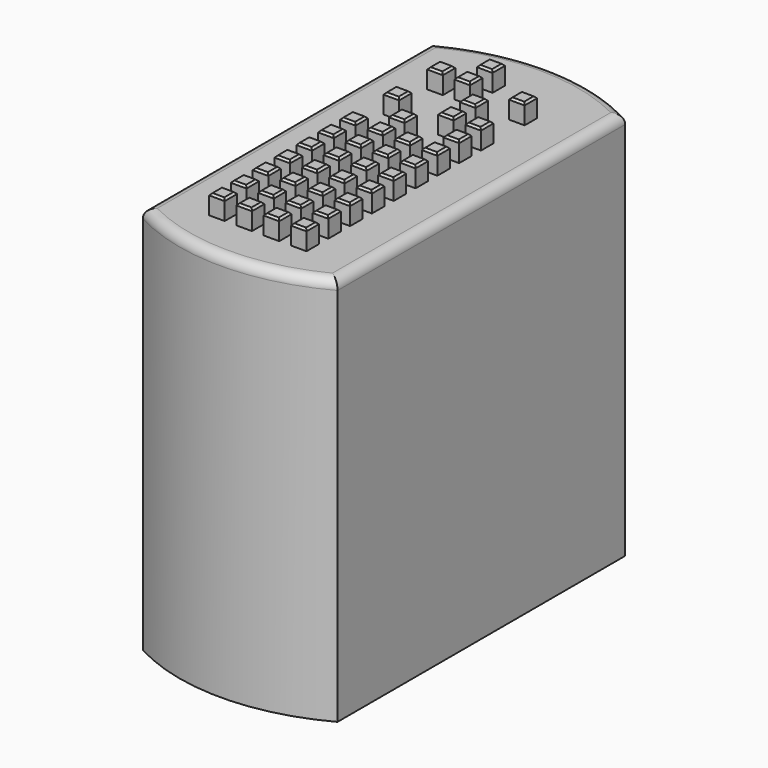
from build123d import *

# Parameters (mm, degrees)
PAD_DEPTH     = 20
SKETCH001_W   = 0.8
SKETCH001_H   = 0.8
SKETCH001_W_2 = 0.800832
SKETCH001_H_2 = 0.800832
PAD001_DEPTH  = 1
CHAMFER_SIZE  = 0.1
FILLET_R      = 0.5


with BuildPart() as part:
    # Sketch → Pad (new body)
    with BuildSketch(Plane.XY):
        with BuildLine():
            Line((-5, 9.233093), (-5, -9.233093))
            ThreePointArc((-5, -9.233093), (0, -10.5), (5, -9.233093))
            Line((5, -9.233093), (5, 9.233093))
            ThreePointArc((5, 9.233093), (0, 10.5), (-5, 9.233093))
        make_face()
    extrude(amount=PAD_DEPTH)

    # Sketch001 (on Face6 of Pad) → Pad001 (join)
    with BuildSketch(Plane.XY.offset(20)):
        with Locations((-2.1, -7.7)):
            Rectangle(SKETCH001_W, SKETCH001_H)
        with Locations((-0.7, -7.7)):
            Rectangle(SKETCH001_W, SKETCH001_H)
        with Locations((0.7, -7.7)):
            Rectangle(SKETCH001_W, SKETCH001_H)
        with Locations((2.1, -7.7)):
            Rectangle(SKETCH001_W, SKETCH001_H)
        with Locations((-2.1, -6.3)):
            Rectangle(SKETCH001_W, SKETCH001_H)
        with Locations((-0.7, -6.3)):
            Rectangle(SKETCH001_W, SKETCH001_H)
        with Locations((0.7, -6.3)):
            Rectangle(SKETCH001_W, SKETCH001_H)
        with Locations((2.1, -6.3)):
            Rectangle(SKETCH001_W, SKETCH001_H)
        with Locations((-2.1, -4.9)):
            Rectangle(SKETCH001_W, SKETCH001_H)
        with Locations((-0.7, -4.9)):
            Rectangle(SKETCH001_W, SKETCH001_H)
        with Locations((0.7, -4.9)):
            Rectangle(SKETCH001_W, SKETCH001_H)
        with Locations((2.1, -4.9)):
            Rectangle(SKETCH001_W, SKETCH001_H)
        with Locations((-2.1, -3.5)):
            Rectangle(SKETCH001_W, SKETCH001_H)
        with Locations((-0.7, -3.5)):
            Rectangle(SKETCH001_W, SKETCH001_H)
        with Locations((0.7, -3.5)):
            Rectangle(SKETCH001_W, SKETCH001_H)
        with Locations((2.1, -3.5)):
            Rectangle(SKETCH001_W, SKETCH001_H)
        with Locations((-2.1, -2.1)):
            Rectangle(SKETCH001_W, SKETCH001_H)
        with Locations((-0.7, -2.1)):
            Rectangle(SKETCH001_W, SKETCH001_H)
        with Locations((0.7, -2.1)):
            Rectangle(SKETCH001_W, SKETCH001_H)
        with Locations((2.1, -2.1)):
            Rectangle(SKETCH001_W, SKETCH001_H)
        with Locations((-2.1, -0.7)):
            Rectangle(SKETCH001_W, SKETCH001_H)
        with Locations((-0.7, -0.7)):
            Rectangle(SKETCH001_W, SKETCH001_H)
        with Locations((0.7, -0.7)):
            Rectangle(SKETCH001_W, SKETCH001_H)
        with Locations((2.1, -0.7)):
            Rectangle(SKETCH001_W, SKETCH001_H)
        with Locations((-2.1, 0.7)):
            Rectangle(SKETCH001_W, SKETCH001_H)
        with Locations((-0.7, 0.7)):
            Rectangle(SKETCH001_W, SKETCH001_H)
        with Locations((0.7, 0.7)):
            Rectangle(SKETCH001_W, SKETCH001_H)
        with Locations((2.1, 0.7)):
            Rectangle(SKETCH001_W, SKETCH001_H)
        with Locations((-0.7, 2.1)):
            Rectangle(SKETCH001_W, SKETCH001_H)
        with Locations((2.1, 2.1)):
            Rectangle(SKETCH001_W, SKETCH001_H)
        with Locations((-2.102913, 3.500416)):
            Rectangle(SKETCH001_W_2, SKETCH001_H_2)
        with Locations((0.698752, 3.500416)):
            Rectangle(SKETCH001_W_2, SKETCH001_H_2)
        with Locations((2.099584, 3.500416)):
            Rectangle(SKETCH001_W_2, SKETCH001_H_2)
        with Locations((0.698752, 4.901248)):
            Rectangle(SKETCH001_W_2, SKETCH001_H_2)
        with Locations((-2.1, 6.3)):
            Rectangle(SKETCH001_W, SKETCH001_H)
        with Locations((-0.7, 6.3)):
            Rectangle(SKETCH001_W, SKETCH001_H)
        with Locations((2.1, 6.3)):
            Rectangle(SKETCH001_W, SKETCH001_H)
        with Locations((-0.66903, 7.7)):
            Rectangle(SKETCH001_W, SKETCH001_H)
    extrude(amount=PAD001_DEPTH)

    # Chamfer
    chamfer_edges = [part.edges().sort_by_distance(p)[0] for p in [
        (2.1, -8.1, 21),
        (2.5, -7.7, 21),
        (2.1, -7.3, 21),
        (1.7, -7.7, 21),
        (0.7, -8.1, 21),
        (1.1, -7.7, 21),
        (0.7, -7.3, 21),
        (0.3, -7.7, 21),
        (-0.7, -8.1, 21),
        (-0.3, -7.7, 21),
        (-0.7, -7.3, 21),
        (-1.1, -7.7, 21),
        (-2.1, -7.3, 21),
        (-1.7, -7.7, 21),
        (-2.1, -8.1, 21),
        (-2.5, -7.7, 21),
        (-2.1, -4.5, 21),
        (-1.7, -4.9, 21),
        (-2.1, -5.3, 21),
        (-2.5, -4.9, 21),
        (-2.1, -1.7, 21),
        (-1.7, -2.1, 21),
        (-2.1, -2.5, 21),
        (-2.5, -2.1, 21),
        (-0.7, 0.3, 21),
        (-0.3, 0.7, 21),
        (-0.7, 1.1, 21),
        (-1.1, 0.7, 21),
        (0.698752, 3.1, 21),
        (1.099168, 3.500416, 21),
        (0.698752, 3.900832, 21),
        (0.298336, 3.500416, 21),
        (-0.7, 1.7, 21),
        (-0.3, 2.1, 21),
        (-0.7, 2.5, 21),
        (-1.1, 2.1, 21),
        (2.1, 1.7, 21),
        (2.5, 2.1, 21),
        (2.1, 2.5, 21),
        (1.7, 2.1, 21),
        (2.1, -1.1, 21),
        (2.5, -0.7, 21),
        (2.1, -0.3, 21),
        (1.7, -0.7, 21),
        (2.1, -2.5, 21),
        (2.5, -2.1, 21),
        (2.1, -1.7, 21),
        (1.7, -2.1, 21),
        (2.099584, 3.1, 21),
        (2.5, 3.500416, 21),
        (2.099584, 3.900832, 21),
        (1.699168, 3.500416, 21),
        (0.7, -2.5, 21),
        (1.1, -2.1, 21),
        (0.7, -1.7, 21),
        (0.3, -2.1, 21),
        (-0.7, -2.5, 21),
        (-0.3, -2.1, 21),
        (-0.7, -1.7, 21),
        (-1.1, -2.1, 21),
        (0.7, -3.9, 21),
        (1.1, -3.5, 21),
        (0.7, -3.1, 21),
        (0.3, -3.5, 21),
        (0.7, 0.3, 21),
        (1.1, 0.7, 21),
        (0.7, 1.1, 21),
        (0.3, 0.7, 21),
        (-2.102913, 3.900832, 21),
        (-1.702497, 3.500416, 21),
        (-2.102913, 3.1, 21),
        (-2.503329, 3.500416, 21),
        (-2.1, 1.1, 21),
        (-1.7, 0.7, 21),
        (-2.1, 0.3, 21),
        (-2.5, 0.7, 21),
        (-2.1, -0.3, 21),
        (-1.7, -0.7, 21),
        (-2.1, -1.1, 21),
        (-2.5, -0.7, 21),
        (-2.1, -3.1, 21),
        (-1.7, -3.5, 21),
        (-2.1, -3.9, 21),
        (-2.5, -3.5, 21),
        (0.7, -6.7, 21),
        (1.1, -6.3, 21),
        (0.7, -5.9, 21),
        (0.3, -6.3, 21),
        (-0.7, -5.3, 21),
        (-0.3, -4.9, 21),
        (-0.7, -4.5, 21),
        (-1.1, -4.9, 21),
        (-0.7, -6.7, 21),
        (-0.3, -6.3, 21),
        (-0.7, -5.9, 21),
        (-1.1, -6.3, 21),
        (0.7, -5.3, 21),
        (1.1, -4.9, 21),
        (0.7, -4.5, 21),
        (0.3, -4.9, 21),
        (0.7, -1.1, 21),
        (1.1, -0.7, 21),
        (0.7, -0.3, 21),
        (0.3, -0.7, 21),
        (-0.7, -1.1, 21),
        (-0.3, -0.7, 21),
        (-0.7, -0.3, 21),
        (-1.1, -0.7, 21),
        (-2.1, -5.9, 21),
        (-1.7, -6.3, 21),
        (-2.1, -6.7, 21),
        (-2.5, -6.3, 21),
        (-0.7, -3.9, 21),
        (-0.3, -3.5, 21),
        (-0.7, -3.1, 21),
        (-1.1, -3.5, 21),
        (2.1, -5.3, 21),
        (2.5, -4.9, 21),
        (2.1, -4.5, 21),
        (1.7, -4.9, 21),
        (2.1, -6.7, 21),
        (2.5, -6.3, 21),
        (2.1, -5.9, 21),
        (1.7, -6.3, 21),
        (2.1, -3.9, 21),
        (2.5, -3.5, 21),
        (2.1, -3.1, 21),
        (1.7, -3.5, 21),
        (-2.1, 6.7, 21),
        (-1.7, 6.3, 21),
        (-2.1, 5.9, 21),
        (-2.5, 6.3, 21),
        (-0.66903, 7.3, 21),
        (-0.26903, 7.7, 21),
        (-0.66903, 8.1, 21),
        (-1.06903, 7.7, 21),
        (0.698752, 4.500832, 21),
        (1.099168, 4.901248, 21),
        (0.698752, 5.301664, 21),
        (0.298336, 4.901248, 21),
        (2.1, 5.9, 21),
        (2.5, 6.3, 21),
        (2.1, 6.7, 21),
        (1.7, 6.3, 21),
        (-0.7, 5.9, 21),
        (-0.3, 6.3, 21),
        (-0.7, 6.7, 21),
        (-1.1, 6.3, 21),
        (2.1, 0.3, 21),
        (2.5, 0.7, 21),
        (2.1, 1.1, 21),
        (1.7, 0.7, 21),
    ]]
    chamfer(chamfer_edges, length=CHAMFER_SIZE)

    # Fillet
    fillet_edges = [part.edges().sort_by_distance(p)[0] for p in [
        (5, 0, 20),
        (0, 10.5, 20),
        (-5, 0, 20),
        (0, -10.5, 20),
    ]]
    fillet(fillet_edges, radius=FILLET_R)


solid = part.part
